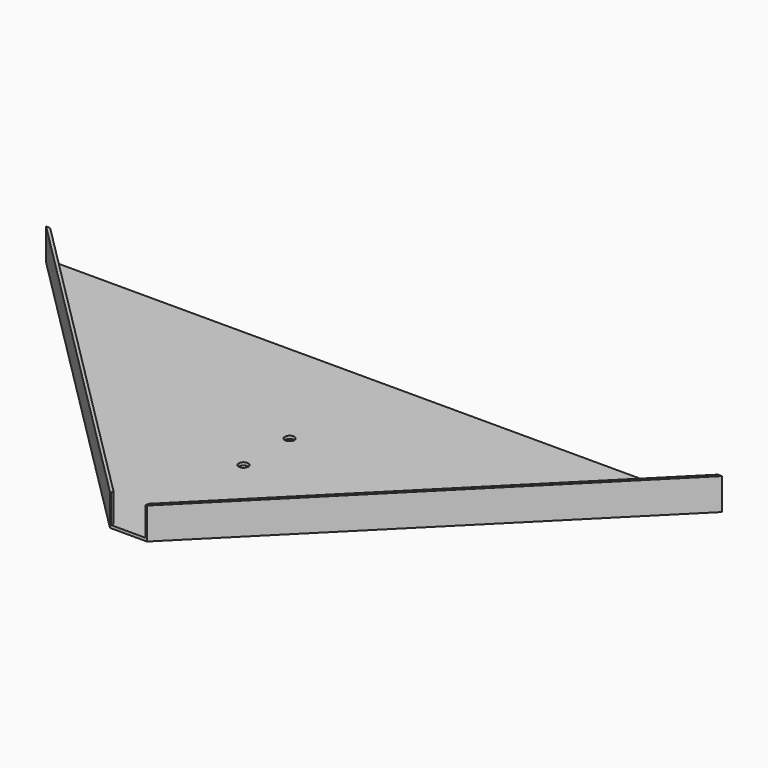
from build123d import *

# Parameters (mm, degrees)
F1_DEPTH = 10
F2_T     = 1
F3_W     = 12
F3_H     = 10
F4_DEPTH = 25
F5_W     = 236.8284271247
F5_H     = 11
F6_DEPTH = 1
F8_D     = 3.3


with BuildPart() as f1:
    # F0 (on Top) → F1 (new body)
    with BuildSketch(Plane.XY):
        Polygon((116, 0), (-116, 0), (-6, -110), (6, -110), align=None)
    extrude(amount=F1_DEPTH)

    # F2
    f2_openings = [f1.faces().sort_by_distance(p)[0] for p in [
        (0, -38.469945, 10),
    ]]
    offset(amount=F2_T, openings=f2_openings, kind=Kind.INTERSECTION)

    # F3 (on face) → F4 (cut)
    with BuildSketch(Plane(origin=(0, -110, 0), x_dir=(-1, 0, 0), z_dir=(0, 1, 0))):
        with Locations((0, 5)):
            Rectangle(F3_W, F3_H)
    extrude(amount=-F4_DEPTH, mode=Mode.SUBTRACT)

    # F5 (on face) → F6 (cut)
    with BuildSketch(Plane(origin=(0, 1, 0), x_dir=(-1, 0, 0), z_dir=(0, 1, 0))):
        with Locations((0, 4.5)):
            Rectangle(F5_W, F5_H)
    extrude(amount=-F6_DEPTH, mode=Mode.SUBTRACT)

    # F8 (through all)
    with Locations(Plane.XY):
        with Locations((0, -41), (0, -61)):
            Hole(F8_D / 2)


solid = f1.part
